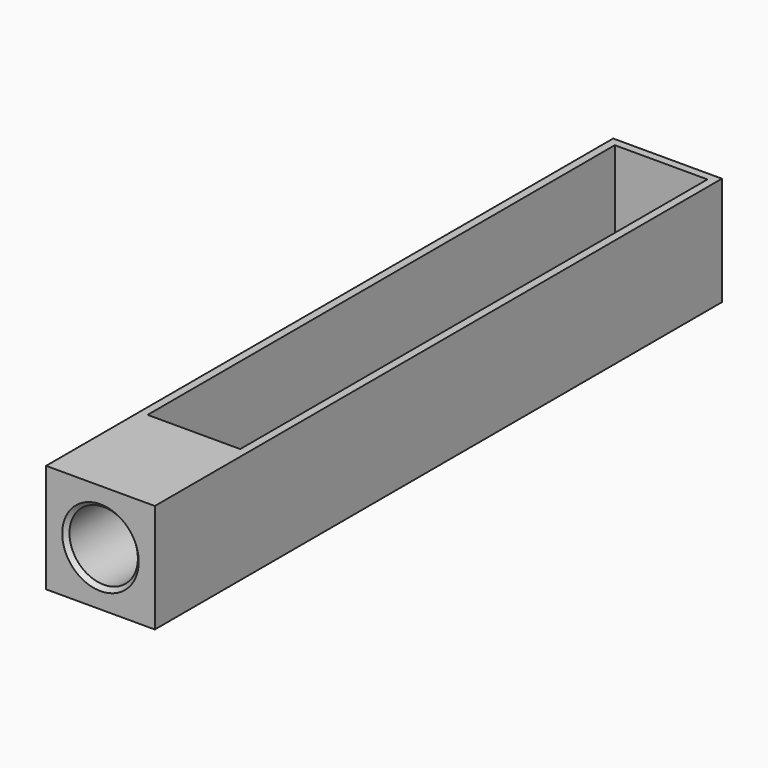
from build123d import *

# Parameters (mm, degrees)
F0_W     = 27
F0_H     = 151
F0_W_2   = 23
F0_H_2   = 145
F1_DEPTH = 27
F3_DEPTH = 2
F2_R     = 2
F4_DEPTH = 1
F5_W     = 27
F5_H     = 27
F5_R     = 8.5
F6_DEPTH = 25
F5_R_2   = 3.5
F7_DEPTH = 4
F8_SIZE  = 1


with BuildPart() as f1:
    # F0 (on Top) → F1 (new body)
    with BuildSketch(Plane.XY):
        with Locations((0, 71.5)):
            Rectangle(F0_W, F0_H)
        with Locations((0, 72.5)):
            Rectangle(F0_W_2, F0_H_2, mode=Mode.SUBTRACT)
    extrude(amount=F1_DEPTH)

    # F0 (on Top) → F3 (join)
    with BuildSketch(Plane.XY):
        with Locations((0, 72.5)):
            Rectangle(F0_W_2, F0_H_2)
    extrude(amount=F3_DEPTH)

    # F2 (on face) → F4 (cut)
    with BuildSketch(Plane(origin=(0, 147, 0), x_dir=(-1, 0, 0), z_dir=(0, 1, 0))):
        with Locations((0, 5.5)):
            Circle(F2_R)
    extrude(amount=-F4_DEPTH, mode=Mode.SUBTRACT)

    # F5 (on face) → F6 (join)
    with BuildSketch(Plane.XZ.offset(4)):
        with Locations((0, 13.5)):
            Rectangle(F5_W, F5_H)
        with Locations((0, 13.5)):
            Circle(F5_R, mode=Mode.SUBTRACT)
    extrude(amount=F6_DEPTH)

    # F5 (on face) → F7 (cut, through all)
    with BuildSketch(Plane.XZ.offset(4)):
        with Locations((2.2, 17.5)):
            Circle(F5_R_2)
    extrude(amount=-F7_DEPTH, mode=Mode.SUBTRACT)

    # F8
    f8_edges = [f1.edges().sort_by_distance(p)[0] for p in [
        (-8.5, -29, 13.5),
    ]]
    chamfer(f8_edges, length=F8_SIZE)


solid = f1.part
